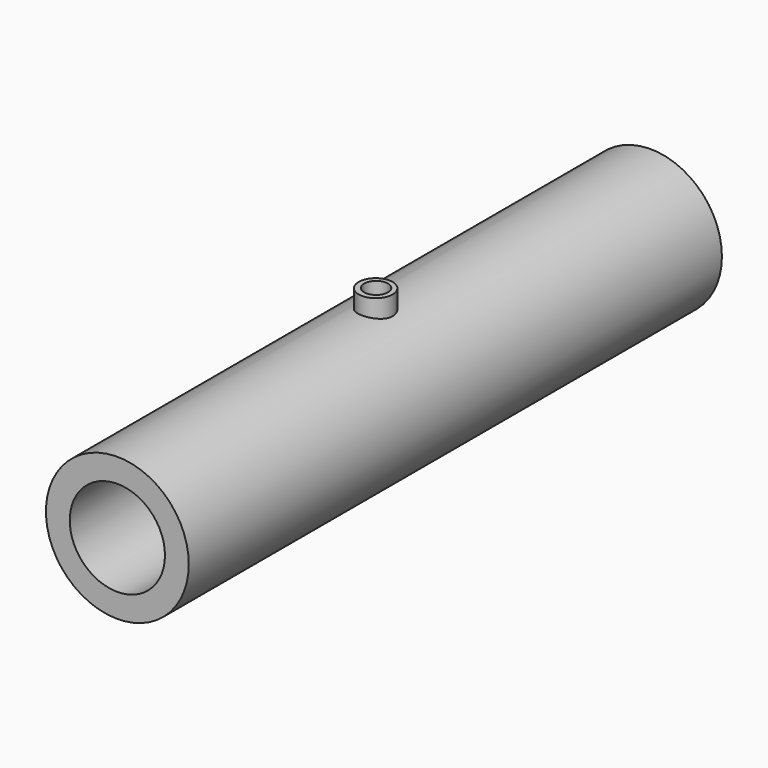
from build123d import *

# Parameters (mm, degrees)
F0_R     = 19.05
F1_DEPTH = 177.8
F2_R     = 12.7
F3_DEPTH = 177.8
F5_START = 7.112
F4_R     = 4.5268076309
F5_DEPTH = 16.51
F7_START = 6.604
F6_R     = 3.1768025879
F7_DEPTH = 17.78


with BuildPart() as f1:
    # F0 (on Front) → F1 (new body)
    with BuildSketch(Plane.XZ):
        Circle(F0_R)
    extrude(amount=F1_DEPTH)

    # F2 (on Front) → F3 (cut)
    with BuildSketch(Plane.XZ):
        Circle(F2_R)
    extrude(amount=F3_DEPTH, mode=Mode.SUBTRACT)

    # F4 (on Top) → F5 (join)
    with BuildSketch(Plane.XY.offset(F5_START)):
        with Locations((0, -91.6567370296)):
            Circle(F4_R)
    extrude(amount=F5_DEPTH)

    # F6 (on Top) → F7 (cut)
    with BuildSketch(Plane.XY.offset(F7_START)):
        with Locations((0, -91.5180891752)):
            Circle(F6_R)
    extrude(amount=F7_DEPTH, mode=Mode.SUBTRACT)


solid = f1.part
